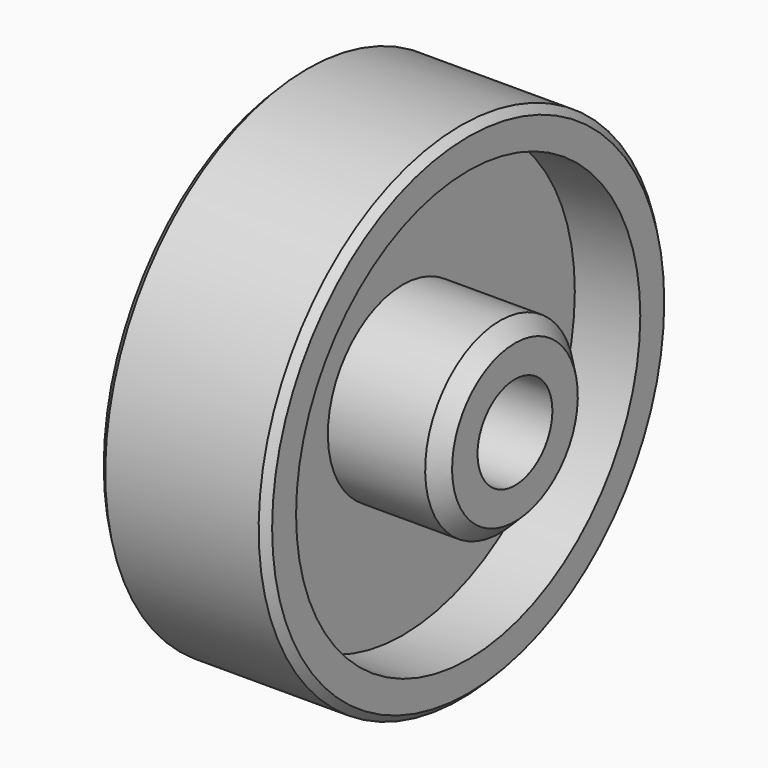
from build123d import *

# Parameters (mm, degrees)
F2_SIZE = 2.54
F3_SIZE = 5.08


with BuildPart() as f1:
    # F0 (on Front) → F1 (revolve)
    with BuildSketch(Plane.XZ):
        Polygon((28.575, 85.725), (-28.575, 85.725), (-28.575, 73.025), (-6.35, 73.025), (-6.35, 31.75), (-44.45, 31.75), (-44.45, 15.875), (44.45, 15.875), (44.45, 31.75), (6.35, 31.75), (6.35, 73.025), (28.575, 73.025), align=None)
    revolve(axis=Axis((-1.587497, 0, 0), (1, 0, 0)))

    # F2
    f2_edges = [f1.edges().sort_by_distance(p)[0] for p in [
        (-28.575, 0, -85.725),
        (28.575, 0, -85.725),
    ]]
    chamfer(f2_edges, length=F2_SIZE)

    # F3
    f3_edges = [f1.edges().sort_by_distance(p)[0] for p in [
        (44.45, 0, -31.75),
        (-44.45, 0, -31.75),
    ]]
    chamfer(f3_edges, length=F3_SIZE)


solid = f1.part
